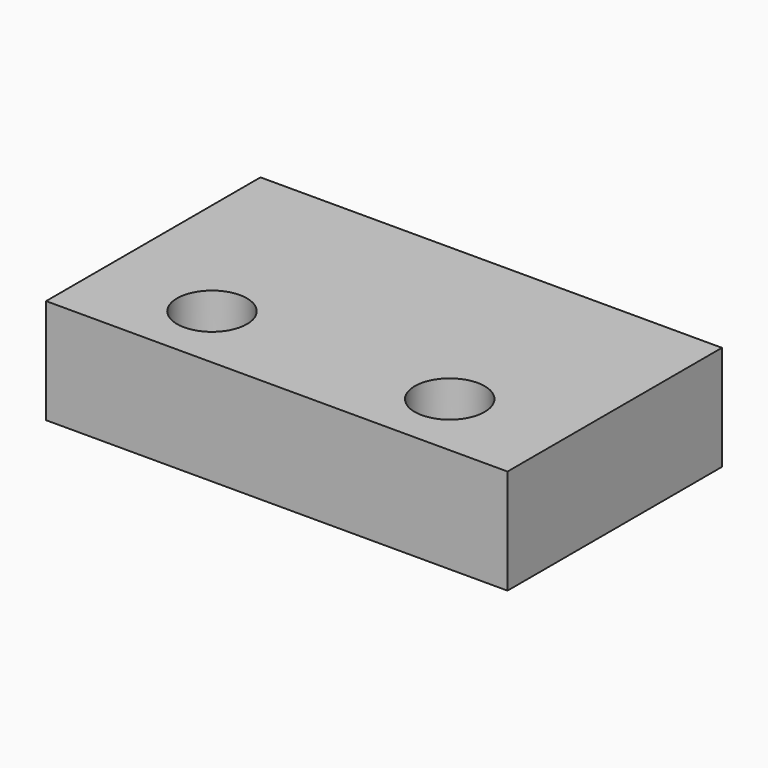
from build123d import *

# Parameters (mm, degrees)
SKETCH_W  = 19.8
SKETCH_H  = 11.5
SKETCH_R  = 1.5
PAD_DEPTH = 4.5


with BuildPart() as part:
    # Sketch → Pad (new body)
    with BuildSketch(Plane.XY):
        with Locations((9.9, 5.75)):
            Rectangle(SKETCH_W, SKETCH_H)
        with Locations((4.8, 2.9)):
            Circle(SKETCH_R, mode=Mode.SUBTRACT)
        with Locations((15, 2.9)):
            Circle(SKETCH_R, mode=Mode.SUBTRACT)
    extrude(amount=PAD_DEPTH)


solid = part.part
